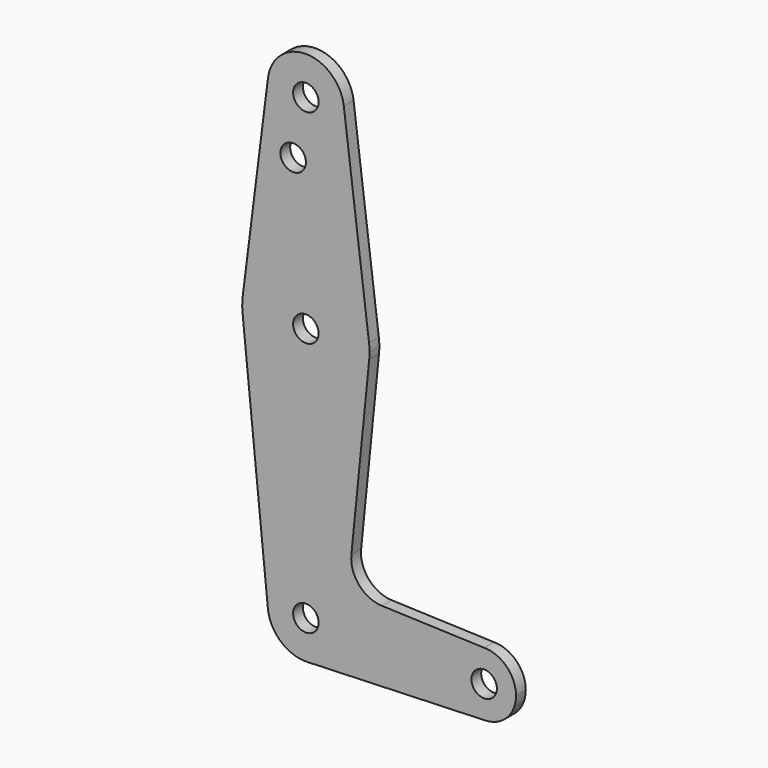
from build123d import *

# Parameters (mm, degrees)
F0_R     = 3.175
F1_DEPTH = 3.048


with BuildPart() as f1:
    # F0 (on Front) → F1 (new body)
    with BuildSketch(Plane.XZ):
        with BuildLine():
            ThreePointArc((-44.109821, -60.972914), (-37.595592, -58.067818), (-34.925, -51.453991))
            ThreePointArc((-34.925, -51.453991), (-44.926848, -41.940934), (-53.927255, -52.406491))
            ThreePointArc((-53.927255, -52.406491), (-50.712383, -58.630911), (-44.109821, -60.972914))
        make_face()
        with Locations((-44.45, -51.453991)):
            Circle(F0_R, mode=Mode.SUBTRACT)
        with BuildLine():
            ThreePointArc((-53.927255, -52.406491), (-44.926848, -41.940934), (-34.925, -51.453991))
            ThreePointArc((-34.925, -51.453991), (-37.595592, -58.067818), (-44.109821, -60.972914))
            Line((-44.109821, -60.972914), (0.283482, -59.386427))
            ThreePointArc((0.283482, -59.386427), (-7.936234, -51.595754), (0, -43.516491))
            Line((0, -43.516491), (-25.483526, -42.602856))
            ThreePointArc((-25.483526, -42.602856), (-31.189314, -39.88442), (-33.109028, -33.862741))
            Line((-33.109028, -33.862741), (-28.654574, 10.458509))
            ThreePointArc((-28.654574, 10.458509), (-44.45, -3.828991), (-60.245426, 10.458509))
            Line((-60.245426, 10.458509), (-53.927255, -52.406491))
        make_face()
        with BuildLine():
            ThreePointArc((-60.200488, 14.030384), (-60.323744, 12.245715), (-60.245426, 10.458509))
            ThreePointArc((-60.245426, 10.458509), (-44.45, -3.828991), (-28.654574, 10.458509))
            ThreePointArc((-28.654574, 10.458509), (-28.594906, 11.251263), (-28.575, 12.046009))
            ThreePointArc((-28.575, 12.046009), (-28.606159, 13.040148), (-28.699512, 14.030384))
            ThreePointArc((-28.699512, 14.030384), (-44.45, 27.921009), (-60.200488, 14.030384))
        make_face()
        with Locations((-44.45, 12.046009)):
            Circle(F0_R, mode=Mode.SUBTRACT)
        with BuildLine():
            ThreePointArc((0, -43.516491), (-7.936234, -51.595754), (0.283482, -59.386427))
            ThreePointArc((0.283482, -59.386427), (5.712007, -56.965513), (7.9375, -51.453991))
            ThreePointArc((7.9375, -51.453991), (5.61266, -45.841331), (0, -43.516491))
        make_face()
        with Locations((0, -51.453991)):
            Circle(F0_R, mode=Mode.SUBTRACT)
        with BuildLine():
            Line((-53.900293, 64.036634), (-60.200488, 14.030384))
            ThreePointArc((-60.200488, 14.030384), (-44.45, 27.921009), (-28.699512, 14.030384))
            Line((-28.699512, 14.030384), (-34.999707, 64.036634))
            ThreePointArc((-34.999707, 64.036634), (-34.943695, 63.442493), (-34.925, 62.846009))
            ThreePointArc((-34.925, 62.846009), (-45.046483, 53.339705), (-53.900293, 64.036634))
        make_face()
        with Locations((-47.625, 48.571209)):
            Circle(F0_R, mode=Mode.SUBTRACT)
        with BuildLine():
            ThreePointArc((-34.999707, 64.036634), (-44.45, 72.371009), (-53.900293, 64.036634))
            ThreePointArc((-53.900293, 64.036634), (-45.046483, 53.339705), (-34.925, 62.846009))
            ThreePointArc((-34.925, 62.846009), (-34.943695, 63.442493), (-34.999707, 64.036634))
        make_face()
        with Locations((-44.45, 62.846009)):
            Circle(F0_R, mode=Mode.SUBTRACT)
    extrude(amount=F1_DEPTH)


solid = f1.part
